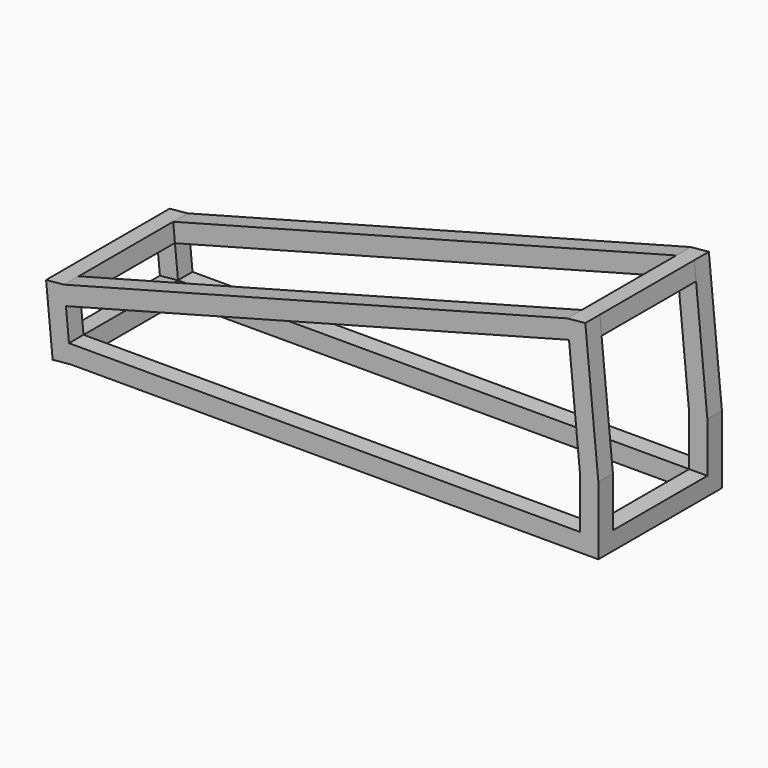
from build123d import *

# Parameters (mm, degrees)
F1_DEPTH = 40
F3_W     = 40
F3_H     = 40
F4_DEPTH = 130


with BuildPart() as f1:
    # F0 (on Front) → F1 (new body)
    with BuildSketch(Plane.XZ):
        Polygon((-1215.873162, 146.164695), (-1201.424196, -3.835305), (-1161.60849, 0), (0, 0), (0, 150), (-28.764789, 448.617794), (-68.580495, 444.782489), (-1176.057456, 150), align=None)
        Polygon((-1172.169917, 109.642031), (-64.692955, 404.42452), (-40, 148.07792), (-40, 40), (-1165.461548, 40), align=None, mode=Mode.SUBTRACT)
    extrude(amount=F1_DEPTH)

    # F3 (on face) → F4 (join)
    with BuildSketch(Plane.XZ):
        Polygon((-24.929484, 408.802088), (-28.764789, 448.617794), (-68.580495, 444.782489), (-64.74519, 404.966783), align=None)
        with Locations((-20, 20)):
            Rectangle(F3_W, F3_H)
        Polygon((-1172.222151, 110.184294), (-1176.057456, 150), (-1215.873162, 146.164695), (-1212.037857, 106.348989), align=None)
        Polygon((-1161.60849, 0), (-1165.443796, 39.815706), (-1205.259501, 35.980401), (-1201.424196, -3.835305), align=None)
    extrude(amount=-F4_DEPTH)

    # F5: F1 across face


with BuildPart() as f1_1:
    add(f1.part)
    add(f1.part.mirror(Plane(origin=(-46.754989, 130, 426.792288), x_dir=(1, 0, 0), z_dir=(0, 1, 0))))


solid = f1_1.part
